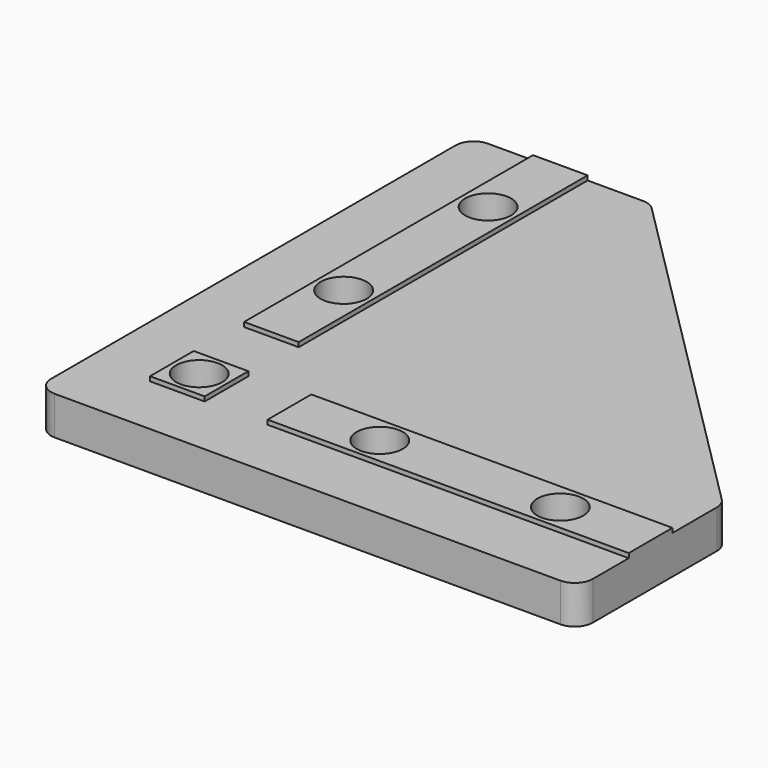
from build123d import *

# Parameters (mm, degrees)
F2_W     = 6.975
F2_H     = 40
F2_H_2   = 6.975
F2_W_2   = 6.05
F2_R     = 2.55
F2_H_3   = 6.05
F2_W_3   = 40
F3_DEPTH = 4.2625
F4_DEPTH = 4.7625
F5_R     = 2


with BuildPart() as f3:
    # F2 (on Top) → F3 (new body)
    with BuildSketch(Plane.XY):
        with Locations((-6.5125, 30)):
            Rectangle(F2_W, F2_H)
        with Locations((-6.5125, 6.5125)):
            Rectangle(F2_W, F2_H_2)
        with Locations((0, 30)):
            Rectangle(F2_W_2, F2_H)
        with Locations((0, 20)):
            Circle(F2_R, mode=Mode.SUBTRACT)
        with Locations((0, 40)):
            Circle(F2_R, mode=Mode.SUBTRACT)
        with Locations((-6.5125, 0)):
            Rectangle(F2_W, F2_H_3)
        with Locations((6.5125, 30)):
            Rectangle(F2_W, F2_H)
        with Locations((-6.5125, -6.5125)):
            Rectangle(F2_W, F2_H_2)
        Polygon((50, 10), (10, 50), (10, 10), align=None)
        with Locations((0, -6.5125)):
            Rectangle(F2_W_2, F2_H_2)
        with Locations((30, 6.5125)):
            Rectangle(F2_W_3, F2_H_2)
        with Locations((6.5125, -6.5125)):
            Rectangle(F2_W, F2_H_2)
        with Locations((30, 0)):
            Rectangle(F2_W_3, F2_H_3)
        with Locations((20, 0)):
            Circle(F2_R, mode=Mode.SUBTRACT)
        with Locations((40, 0)):
            Circle(F2_R, mode=Mode.SUBTRACT)
        with Locations((30, -6.5125)):
            Rectangle(F2_W_3, F2_H_2)
        with Locations((6.5125, 6.5125)):
            Rectangle(F2_W, F2_H_2)
        with Locations((6.5125, 0)):
            Rectangle(F2_W, F2_H_3)
        Rectangle(F2_W_2, F2_H_3)
        Circle(F2_R, mode=Mode.SUBTRACT)
        with Locations((0, 6.5125)):
            Rectangle(F2_W_2, F2_H_2)
    extrude(amount=F3_DEPTH)

    # F2 (on Top) → F4 (join)
    with BuildSketch(Plane.XY):
        Rectangle(F2_W_2, F2_H_3)
        Circle(F2_R, mode=Mode.SUBTRACT)
        with Locations((30, 0)):
            Rectangle(F2_W_3, F2_H_3)
        with Locations((20, 0)):
            Circle(F2_R, mode=Mode.SUBTRACT)
        with Locations((40, 0)):
            Circle(F2_R, mode=Mode.SUBTRACT)
        with Locations((0, 30)):
            Rectangle(F2_W_2, F2_H)
        with Locations((0, 20)):
            Circle(F2_R, mode=Mode.SUBTRACT)
        with Locations((0, 40)):
            Circle(F2_R, mode=Mode.SUBTRACT)
    extrude(amount=F4_DEPTH)

    # F5
    f5_edges = [f3.edges().sort_by_distance(p)[0] for p in [
        (50, 10, 2.13125),
        (50, -10, 2.13125),
        (-10, -10, 2.13125),
        (-10, 50, 2.13125),
        (10, 50, 2.13125),
    ]]
    fillet(f5_edges, radius=F5_R)


solid = f3.part
